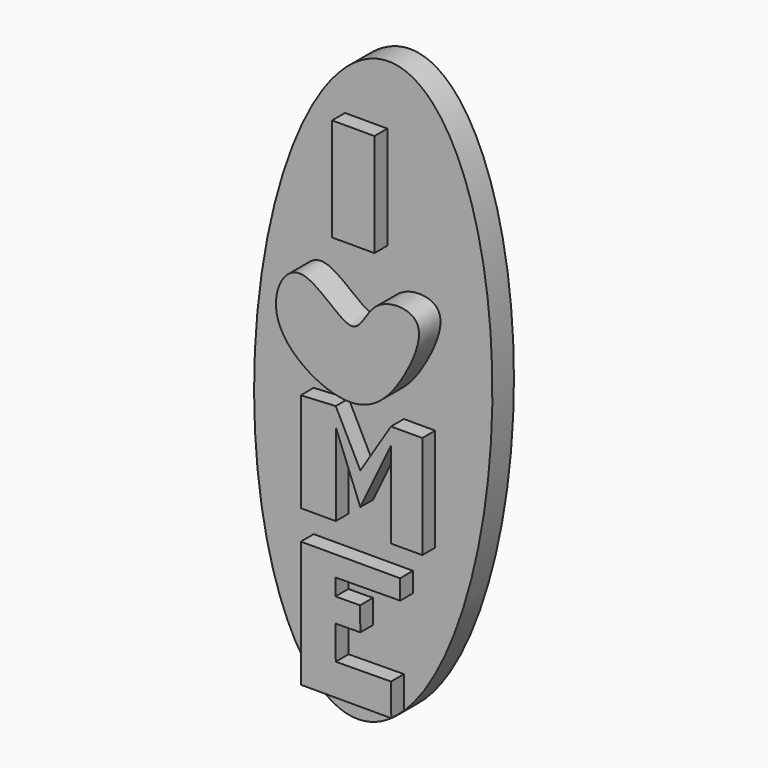
from build123d import *

# Parameters (mm, degrees)
F1_DEPTH = 5
F3_DEPTH = 5
F4_W     = 7.8653162345
F4_H     = 19.1500522196
F5_DEPTH = 3
F7_DEPTH = 3


with BuildPart() as f1:
    # F0 (on Front) → F1 (new body)
    with BuildSketch(Plane.XZ):
        with BuildLine():
            add(Edge.make_bspline(
                [(3.4192316234, 54.7076947987), (-34.4730980133, 57.0759658848), (-20.6557806301, -26.1697118563), (-6.8384632468, -109.4153895974), (17.2365490066, -28.5379829424), (41.3115612601, 52.3394237126), (3.4192316234, 54.7076947987)],
                knots=[0, 0, 0, 2.0943951024, 2.0943951024, 4.1887902048, 4.1887902048, 6.2831853072, 6.2831853072, 6.2831853072], degree=2, weights=[1, 0.5, 1, 0.5, 1, 0.5, 1]))
        make_face()
    extrude(amount=F1_DEPTH)

    # F2 (on face) → F3 (join)
    with BuildSketch(Plane.XZ.offset(5)):
        with BuildLine():
            add(Edge.make_bspline(
                [(0, 12.5325154513), (-2.3439333607, 12.5675516847), (-10.2799502152, 22.973027831), (-17.7870573836, 7.3861261072), (1.0290902774, -3.9080504103), (10.1080597772, 6.7741723317), (14.7639826059, 18.9024591621), (3.3358880418, 19.0305414945), (1.8175033241, 12.5053480959), (0, 12.5325154513)],
                knots=[0, 0, 0, 0, 0.1486863279, 0.2859548168, 0.4682227764, 0.6257740724, 0.7652604101, 0.8847075178, 1, 1, 1, 1], degree=3))
        make_face()
    extrude(amount=F3_DEPTH)

    # F4 (on face) → F5 (join)
    with BuildSketch(Plane.XZ.offset(5)):
        with Locations((-1.3125012629, 34.0755563229)):
            Rectangle(F4_W, F4_H)
    extrude(amount=F5_DEPTH)

    # F6 (on face) → F7 (join)
    with BuildSketch(Plane.XZ.offset(5)):
        Polygon((-4.5612184331, -2.8529395349), (-11.0586527735, -3.2009466086), (-11.0586527735, -21.6672457755), (-4.5612184331, -21.6672457755), (-4.5612184331, -6.2766978517), (0, -17.9022699594), (5.6978878565, -5.932086613), (5.6978878565, -22.0045000315), (11.5113807842, -22.0045000315), (11.5113807842, -2.8529395349), (5.6978878565, -2.8529395349), (0, -11.9171782862), align=None)
        Polygon((7.3793059199, -27.1331109107), (-11.0586527735, -27.1331109107), (-11.0586527735, -50.5551927485), (5.7531225846, -50.5551927485), (5.6978878565, -44.5751026273), (-4.5612184331, -44.6698602204), (-4.6188357577, -38.4318138827), (0, -38.3891522953), (-0.0408034181, -33.9714946721), (-4.6188357577, -34.0137793813), (-4.6475719212, -30.9026054201), (7.4130937032, -30.7912078369), align=None)
    extrude(amount=F7_DEPTH)


solid = f1.part
